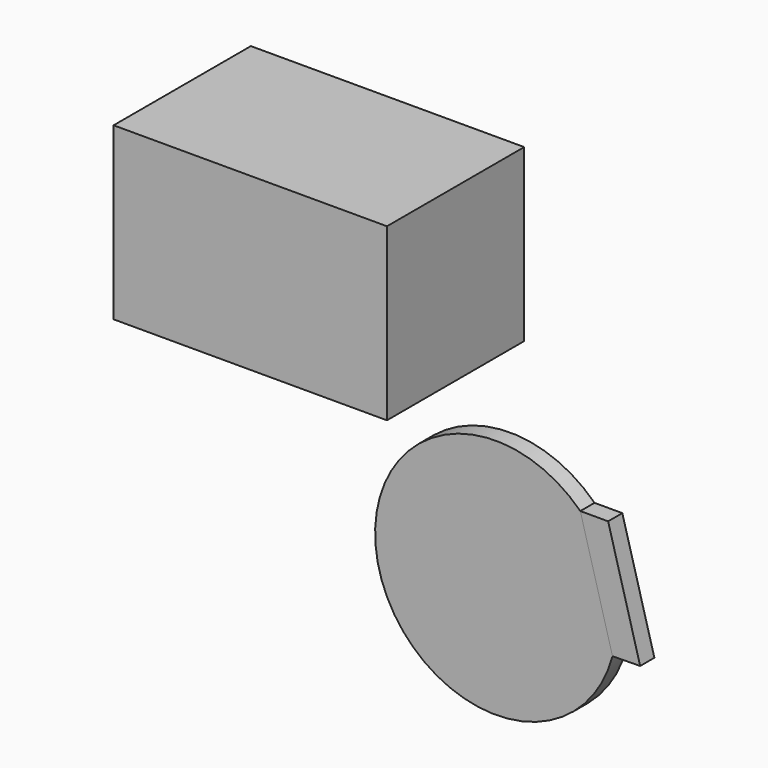
from build123d import *

# Parameters (mm, degrees)
F0_W     = 101.6
F0_H     = 63.5
F1_DEPTH = 63.754
F2_DEPTH = 6.604
F3_DEPTH = 6.604


with BuildPart() as f1:
    # F0 (on Front) → F1 (new body)
    with BuildSketch(Plane.XZ):
        with Locations((-38.389131, 47.730444)):
            Rectangle(F0_W, F0_H)
    extrude(amount=F1_DEPTH)


with BuildPart() as f2:
    # F0 (on Front) → F2 (new body)
    with BuildSketch(Plane.XZ):
        with BuildLine():
            Line((50.506752, -72.034515), (38.557757, -28.434701))
            ThreePointArc((38.557757, -28.434701), (-36.119708, -72.338141), (50.506752, -72.034515))
        make_face()
    extrude(amount=F2_DEPTH)


with BuildPart() as f3:
    # F0 (on Front) → F3 (new body)
    with BuildSketch(Plane.XZ):
        Polygon((48.888706, -28.434701), (38.557757, -28.434701), (50.506752, -72.034515), (60.800345, -71.898211), align=None)
    extrude(amount=F3_DEPTH)


solid = Compound([f1.part, f2.part, f3.part])
